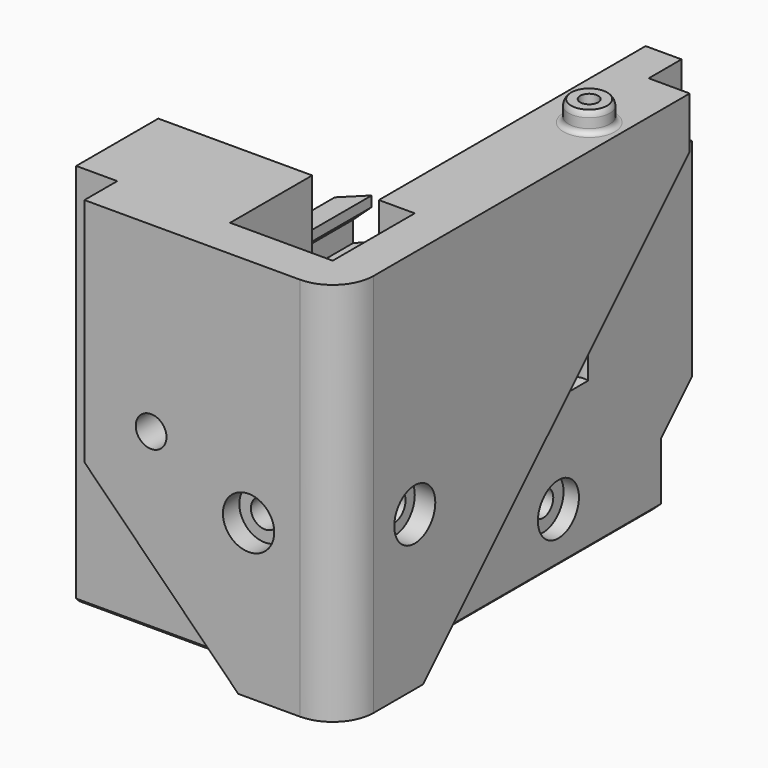
from build123d import *

# Parameters (mm, degrees)
SKETCH486_W          = 20
SKETCH486_H          = 20
PAD109_DEPTH         = 45
PAD109_DEPTH_BACK    = 30
PAD111_DEPTH         = 30
PAD111_DEPTH_BACK    = 30
POCKET345_DEPTH      = 8.001
POCKET348_DEPTH      = 8.001
POCKET371_DEPTH      = 5.25
SKETCH591_R          = 2.75
POCKET420_DEPTH      = 8.001
SKETCH592_R          = 5
POCKET421_DEPTH      = 4.001
SKETCH593_R          = 2.75
POCKET422_DEPTH      = 8.001
SKETCH594_R          = 5
POCKET423_DEPTH      = 4.001
SKETCH630_R          = 4
POCKET453_DEPTH      = 12.001
POCKET454_DEPTH      = 20
SKETCH632_R          = 1.75
POCKET455_DEPTH      = 12
POCKET456_DEPTH      = 3.5
SKETCH634_R          = 4.15
POCKET457_DEPTH      = 19.501
SKETCH651_W          = 4.15
SKETCH651_H          = 21.4
SKETCH663_R          = 4
PAD139_DEPTH         = 4
CHAMFER029_SIZE      = 0.5
FILLET027_R          = 1.5
FILLET028_R          = 1
SKETCH662_W          = 1.75
SKETCH662_H          = 22.7
SKETCH662_W_2        = 3
SKETCH662_H_2        = 26
CHAMFER030_SIZE      = 0.9
CHAMFER031_SIZE      = 0.75
CHAMFER032_SIZE2     = 1.5
CHAMFER032_SIZE      = 0.4
POCKET474_DEPTH      = 80
POCKET474_DEPTH_BACK = 22
POCKET475_DEPTH      = 60.001


with BuildPart() as obj1:
    # Sketch486 → Pad109 (new body, two sides)
    with BuildSketch(Plane.XY) as pad109_sk:
        with BuildLine():
            Line((-8, 0), (-8, 85))
            Line((-8, 85), (28, 85))
            Line((50, 63), (28, 85))
            Line((50, 63), (50, -8))
            Line((50, -8), (0, -8))
            ThreePointArc((-8, 0), (-5.656854, -5.656854), (0, -8))
        make_face()
        with Locations((10, 10)):
            Rectangle(SKETCH486_W, SKETCH486_H, mode=Mode.SUBTRACT)
    extrude(amount=PAD109_DEPTH)
    extrude(pad109_sk.sketch, amount=-PAD109_DEPTH_BACK)

    # Sketch493 → Pad111 (join, two sides)
    with BuildSketch(Plane.XY) as pad111_sk:
        Polygon((0, 80), (28, 80), (20.5, 87.5), (0, 87.5), align=None)
    extrude(amount=PAD111_DEPTH)
    extrude(pad111_sk.sketch, amount=-PAD111_DEPTH_BACK)

    # Sketch495 → Pocket345 (cut, through all)
    with BuildSketch(Plane.YZ):
        Polygon((85, 50), (85, -30), (12, -30), (77, 35), (77, 50), align=None)
    extrude(amount=-POCKET345_DEPTH, mode=Mode.SUBTRACT)

    # Sketch498 → Pocket348 (cut, through all)
    with BuildSketch(Plane.XZ):
        Polygon((50, 50), (42, 50), (42, 0), (12, -30), (50, -30), align=None)
    extrude(amount=POCKET348_DEPTH, mode=Mode.SUBTRACT)

    # Sketch523 → Pocket371 (cut, symmetric)
    with BuildSketch(Plane.YZ.offset(10)):
        with BuildLine():
            ThreePointArc((65, -20), (55, -10), (45, -20))
            Line((45, -20), (45, -30))
            Line((45, -30), (65, -30))
            Line((65, -30), (65, -20))
        make_face()
    extrude(amount=POCKET371_DEPTH, both=True, mode=Mode.SUBTRACT)

    # Sketch524 → Revolution (revolve)
    with BuildSketch(Plane(origin=(10, 55, -20), x_dir=(1, 0, 0), z_dir=(0, -1, 0))):
        Polygon((4.25, 0), (4.25, -4), (5.25, -5), (5.25, 0), align=None)
        Polygon((-5.25, 0), (-5.25, -5), (-4.25, -4), (-4.25, 0), align=None)
    revolve(axis=Axis((10, 55, -20), (1, 0, 0)))

    # Sketch525 → Groove018 (revolve, cut)
    with BuildSketch(Plane(origin=(0, 55, -20), x_dir=(1, 0, 0), z_dir=(0, 0, 1))):
        Polygon((0, 0), (0, 5), (3, 5), (3, 2.5), (35, 2.5), (35, 0), align=None)
    revolve(axis=Axis((35, 55, -20), (-1, 0, 0)), mode=Mode.SUBTRACT)

    # Sketch591 → Pocket420 (cut, through all)
    with BuildSketch(Plane.YZ):
        with Locations((10, 0)):
            Circle(SKETCH591_R)
    extrude(amount=-POCKET420_DEPTH, mode=Mode.SUBTRACT)

    # Sketch592 → Pocket421 (cut, through all)
    with BuildSketch(Plane.YZ.offset(-4)):
        with Locations((10, 0)):
            Circle(SKETCH592_R)
    extrude(amount=-POCKET421_DEPTH, mode=Mode.SUBTRACT)

    # Sketch593 → Pocket422 (cut, through all)
    with BuildSketch(Plane.XZ):
        with Locations((10, 0)):
            Circle(SKETCH593_R)
    extrude(amount=POCKET422_DEPTH, mode=Mode.SUBTRACT)

    # Sketch594 → Pocket423 (cut, through all)
    with BuildSketch(Plane.XZ.offset(4)):
        with Locations((10, 0)):
            Circle(SKETCH594_R)
    extrude(amount=POCKET423_DEPTH, mode=Mode.SUBTRACT)

    # Sketch630 → Pocket453 (cut, through all)
    with BuildSketch(Plane.XY.offset(-18)):
        with Locations((10, 80)):
            Circle(SKETCH630_R)
    extrude(amount=-POCKET453_DEPTH, mode=Mode.SUBTRACT)

    # Sketch631 → Pocket454 (cut)
    with BuildSketch(Plane.YZ):
        Polygon((80, -18), (80, -30), (87.5, -30), (87.5, -10.5), align=None)
    extrude(amount=POCKET454_DEPTH, mode=Mode.SUBTRACT)

    # Sketch632 → Pocket455 (cut)
    with BuildSketch(Plane.XZ.offset(-80)):
        with Locations((4, -25)):
            Circle(SKETCH632_R)
        with Locations((16, -25)):
            Circle(SKETCH632_R)
    extrude(amount=POCKET455_DEPTH, mode=Mode.SUBTRACT)

    # Sketch633 → Pocket456 (cut)
    with BuildSketch(Plane.XZ.offset(-74)):
        Polygon((4, -21.824574), (1.25, -23.412287), (1.25, -26.587713), (1.25, -30), (6.75, -30), (6.75, -26.587713), (6.75, -23.412287), align=None)
        Polygon((16, -21.824574), (13.25, -23.412287), (13.25, -26.587713), (13.25, -30), (18.75, -30), (18.75, -26.587713), (18.75, -23.412287), align=None)
    extrude(amount=POCKET456_DEPTH, mode=Mode.SUBTRACT)

    # Sketch634 → Pocket457 (cut, through all)
    with BuildSketch(Plane.XZ.offset(-68)):
        with Locations((10, 0)):
            Circle(SKETCH634_R)
    extrude(amount=-POCKET457_DEPTH, mode=Mode.SUBTRACT)

    # Sketch651 → Groove028 (revolve, cut)
    with BuildSketch(Plane(origin=(10, 78, 0), x_dir=(0.984808, 0.173648, 0), z_dir=(0, 0, 1))):
        with Locations((2.075, 1.3)):
            Rectangle(SKETCH651_W, SKETCH651_H)
    revolve(axis=Axis((10, 78, 0), (-0.173648, 0.984808, 0)), mode=Mode.SUBTRACT)

    # Sketch663 → Pad139 (join)
    with BuildSketch(Plane.XY.offset(45)):
        with Locations((-2, 60)):
            Circle(SKETCH663_R)
    extrude(amount=PAD139_DEPTH)

    # Chamfer029
    chamfer029_edges = [obj1.edges().sort_by_distance(p)[0] for p in [
        (-6, 60, 49),
    ]]
    chamfer(chamfer029_edges, length=CHAMFER029_SIZE)

    # Fillet027
    fillet027_edges = [obj1.edges().sort_by_distance(p)[0] for p in [
        (-6, 60, 48.5),
    ]]
    fillet(fillet027_edges, radius=FILLET027_R)

    # Fillet028
    fillet028_edges = [obj1.edges().sort_by_distance(p)[0] for p in [
        (-6, 60, 45),
    ]]
    fillet(fillet028_edges, radius=FILLET028_R)

    # Sketch662 → Groove033 (revolve, cut)
    with BuildSketch(Plane(origin=(-2, 60, 0), x_dir=(1, 0, 0), z_dir=(0, -1, 0))):
        with Locations((0.875, 37.65)):
            Rectangle(SKETCH662_W, SKETCH662_H)
        with Locations((1.5, 13)):
            Rectangle(SKETCH662_W_2, SKETCH662_H_2)
    revolve(axis=Axis((-2, 60, 0), (0, 0, 1)), mode=Mode.SUBTRACT)

    # Chamfer030
    chamfer030_edges = [obj1.edges().sort_by_distance(p)[0] for p in [
        (0, 60, 0),
    ]]
    chamfer(chamfer030_edges, length=CHAMFER030_SIZE)

    # Chamfer031
    chamfer031_edges = [obj1.edges().sort_by_distance(p)[0] for p in [
        (10, 20, -30),
        (0, 6, -30),
        (6, 0, -30),
        (20, 10, -30),
        (0, 50, -30),
        (35, 0, -30),
        (17, 80, -30),
        (10, 76, -30),
        (3, 80, -30),
        (20, 83.75, -30),
    ]]
    chamfer(chamfer031_edges, length=CHAMFER031_SIZE)

    # Chamfer032
    chamfer032_edges = [obj1.edges().sort_by_distance(p)[0] for p in [
        (1.25, 72.25, -30),
        (6.75, 72.25, -30),
        (4, 70.5, -30),
        (4, 74, -30),
        (13.25, 72.25, -30),
        (16, 70.5, -30),
        (18.75, 72.25, -30),
        (16, 74, -30),
    ]]
    chamfer032_side = obj1.faces().sort_by_distance((27.810533, 41.388296, -30))[0]
    chamfer(chamfer032_edges, length=CHAMFER032_SIZE, length2=CHAMFER032_SIZE2, reference=chamfer032_side)


with BuildPart() as xy_motor_mount_right:
    # Part__Mirroring097: instance of obj1
    add(obj1.part.mirror(Plane(origin=(0, 0, 0), x_dir=(0, -1, 0), z_dir=(1, 0, 0))))

    # Sketch659 → Pocket474 (cut, two sides)
    with BuildSketch(Plane.XZ.offset(-42)) as pocket474_sk:
        Polygon((-12, 14), (-12, 12), (-10, 10), (-10, 6), (-48, 6), (-48, 10), (-46, 12), (-46, 14), (-51, 14), (-51, 80), (-7, 80), (-7, 14), align=None)
    extrude(amount=-POCKET474_DEPTH, mode=Mode.SUBTRACT)
    extrude(pocket474_sk.sketch, amount=POCKET474_DEPTH_BACK, mode=Mode.SUBTRACT)

    # Sketch660 → Groove032 (revolve, cut)
    with BuildSketch(Plane.XY.offset(9.5)):
        Polygon((-29, 21), (-27.25, 21), (-27.25, 8), (-26, 8), (-26, -8), (-29, -8), align=None)
    revolve(axis=Axis((-29, -8, 9.5), (0, 1, 0)), mode=Mode.SUBTRACT)

    # Sketch661 → Pocket475 (cut, through all)
    with BuildSketch(Plane.XY.offset(-11)):
        with BuildLine():
            Line((-38, 42), (-38, 88))
            Line((-38, 88), (-20, 88))
            Line((-20, 88), (-20, 42))
            ThreePointArc((-38, 42), (-29, 33), (-20, 42))
        make_face()
    extrude(amount=POCKET475_DEPTH, mode=Mode.SUBTRACT)


with BuildPart() as xy_motor_mount_right_1:
    # Body206 placement: moved
    add(xy_motor_mount_right.part.moved(Location((170, -170, 0))))


solid = xy_motor_mount_right_1.part
